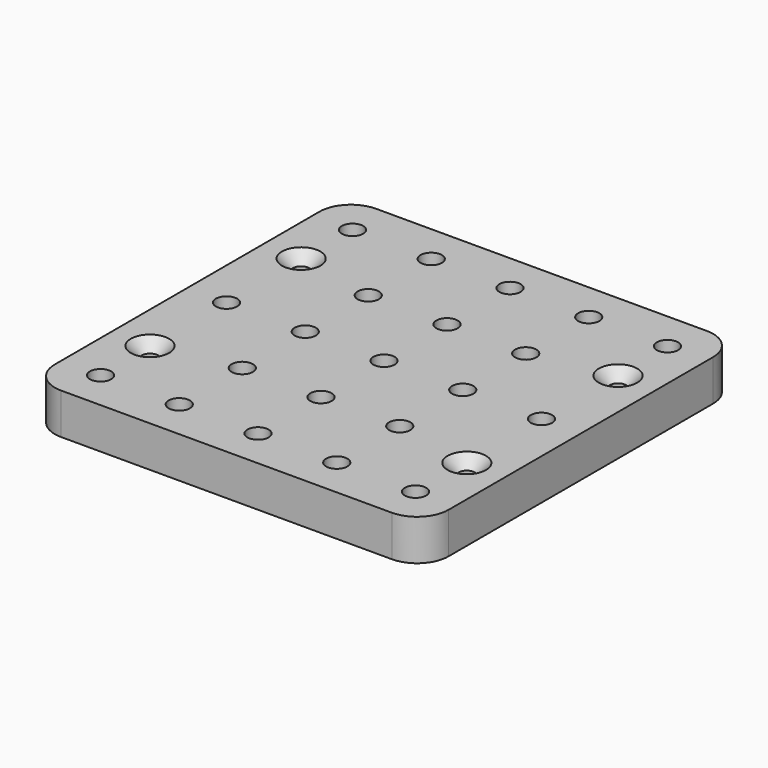
from build123d import *

# Parameters (mm, degrees)
F0_R     = 3.375
F0_R_2   = 2.6
F1_DEPTH = 13
F2_SIZE  = 3.5
F3_R     = 9
F4_DEPTH = 1.5


with BuildPart() as f1:
    # F0 (on Top) → F1 (new body)
    with BuildSketch(Plane.XY):
        with BuildLine():
            Line((-52.5, -62.5), (52.5, -62.5))
            ThreePointArc((52.5, -62.5), (59.571068, -59.571068), (62.5, -52.5))
            Line((62.5, -52.5), (62.5, 52.5))
            ThreePointArc((62.5, 52.5), (59.571068, 59.571068), (52.5, 62.5))
            Line((52.5, 62.5), (-52.5, 62.5))
            ThreePointArc((-52.5, 62.5), (-59.571068, 59.571068), (-62.5, 52.5))
            Line((-62.5, 52.5), (-62.5, -52.5))
            ThreePointArc((-62.5, -52.5), (-59.571068, -59.571068), (-52.5, -62.5))
        make_face()
        with Locations((-50, -50)):
            Circle(F0_R, mode=Mode.SUBTRACT)
        with Locations((-25, -50)):
            Circle(F0_R, mode=Mode.SUBTRACT)
        with Locations((0, -50)):
            Circle(F0_R, mode=Mode.SUBTRACT)
        with Locations((-50.3, -30)):
            Circle(F0_R_2, mode=Mode.SUBTRACT)
        with Locations((-25, -25)):
            Circle(F0_R, mode=Mode.SUBTRACT)
        with Locations((0, -25)):
            Circle(F0_R, mode=Mode.SUBTRACT)
        with Locations((25, -50)):
            Circle(F0_R, mode=Mode.SUBTRACT)
        with Locations((50, -50)):
            Circle(F0_R, mode=Mode.SUBTRACT)
        with Locations((25, -25)):
            Circle(F0_R, mode=Mode.SUBTRACT)
        with Locations((50.3, -30)):
            Circle(F0_R_2, mode=Mode.SUBTRACT)
        with Locations((-50, 0)):
            Circle(F0_R, mode=Mode.SUBTRACT)
        with Locations((-50.3, 30)):
            Circle(F0_R_2, mode=Mode.SUBTRACT)
        with Locations((-25, 0)):
            Circle(F0_R, mode=Mode.SUBTRACT)
        Circle(F0_R, mode=Mode.SUBTRACT)
        with Locations((-25, 25)):
            Circle(F0_R, mode=Mode.SUBTRACT)
        with Locations((0, 25)):
            Circle(F0_R, mode=Mode.SUBTRACT)
        with Locations((-50, 50)):
            Circle(F0_R, mode=Mode.SUBTRACT)
        with Locations((-25, 50)):
            Circle(F0_R, mode=Mode.SUBTRACT)
        with Locations((0, 50)):
            Circle(F0_R, mode=Mode.SUBTRACT)
        with Locations((25, 0)):
            Circle(F0_R, mode=Mode.SUBTRACT)
        with Locations((25, 25)):
            Circle(F0_R, mode=Mode.SUBTRACT)
        with Locations((50, 0)):
            Circle(F0_R, mode=Mode.SUBTRACT)
        with Locations((50.3, 30)):
            Circle(F0_R_2, mode=Mode.SUBTRACT)
        with Locations((25, 50)):
            Circle(F0_R, mode=Mode.SUBTRACT)
        with Locations((50, 50)):
            Circle(F0_R, mode=Mode.SUBTRACT)
    extrude(amount=F1_DEPTH)

    # F2
    f2_edges = [f1.edges().sort_by_distance(p)[0] for p in [
        (-52.9, 30, 13),
        (47.7, 30, 13),
        (47.7, -30, 13),
        (-52.9, -30, 13),
    ]]
    chamfer(f2_edges, length=F2_SIZE)

    # F3 (on face) → F4 (cut)
    with BuildSketch(Plane(origin=(0, 0, 0), x_dir=(1, 0, 0), z_dir=(0, 0, -1))):
        with Locations((0, 50)):
            Circle(F3_R)
        with Locations((0, 25)):
            Circle(F3_R)
        Circle(F3_R)
        with Locations((0, -25)):
            Circle(F3_R)
        with Locations((0, -50)):
            Circle(F3_R)
        with Locations((25, -25)):
            Circle(F3_R)
        with Locations((25, 0)):
            Circle(F3_R)
        with Locations((25, 25)):
            Circle(F3_R)
        with Locations((25, 50)):
            Circle(F3_R)
        with Locations((25, -50)):
            Circle(F3_R)
        with Locations((50, 0)):
            Circle(F3_R)
        with Locations((50, 50)):
            Circle(F3_R)
        with Locations((50, -50)):
            Circle(F3_R)
        with Locations((-25, 0)):
            Circle(F3_R)
        with Locations((-25, 25)):
            Circle(F3_R)
        with Locations((-25, -25)):
            Circle(F3_R)
        with Locations((-25, 50)):
            Circle(F3_R)
        with Locations((-25, -50)):
            Circle(F3_R)
        with Locations((-50, 0)):
            Circle(F3_R)
        with Locations((-50, 50)):
            Circle(F3_R)
        with Locations((-50, -50)):
            Circle(F3_R)
    extrude(amount=-F4_DEPTH, mode=Mode.SUBTRACT)


solid = f1.part
